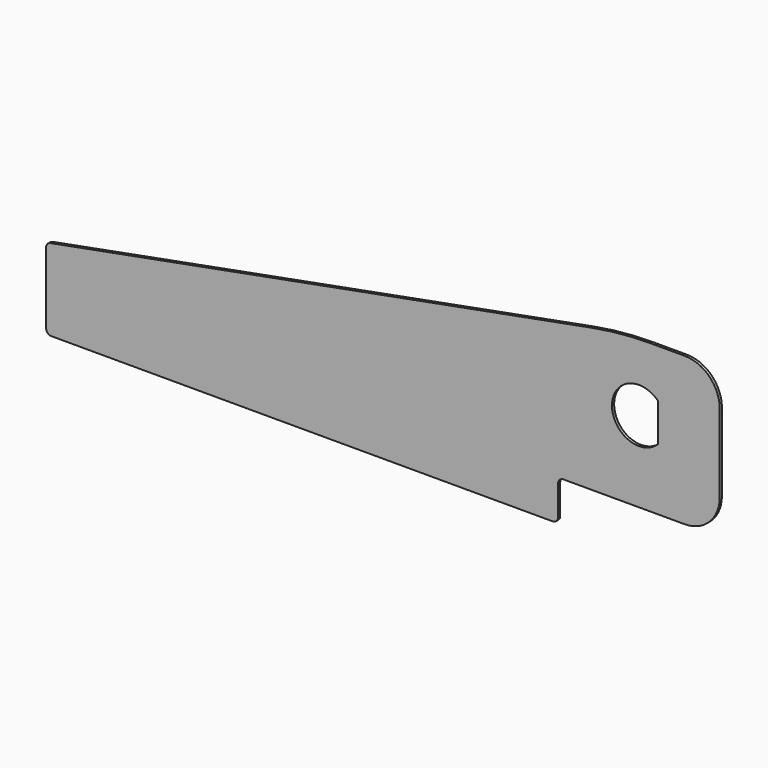
from build123d import *

# Parameters (mm, degrees)
F1_DEPTH = 0.64516


with BuildPart() as f1:
    # F0 (on Front) → F1 (new body)
    with BuildSketch(Plane.XZ):
        with BuildLine():
            ThreePointArc((0, 1.27), (0.371974, 0.371974), (1.27, 0))
            Line((1.27, 0), (119.38, 0))
            ThreePointArc((119.38, 0), (120.278026, 0.371974), (120.65, 1.27))
            Line((120.65, 1.27), (120.65, 8.255))
            ThreePointArc((120.65, 8.255), (121.021974, 9.153026), (121.92, 9.525))
            Line((121.92, 9.525), (150.495, 9.525))
            ThreePointArc((150.495, 9.525), (156.332166, 11.942834), (158.75, 17.78))
            Line((158.75, 17.78), (158.75, 36.195))
            ThreePointArc((158.75, 36.195), (156.332166, 42.032166), (150.495, 44.45))
            Line((150.495, 44.45), (142.54871, 44.45))
            ThreePointArc((142.54871, 44.45), (135.497057, 44.123014), (128.505923, 43.144861))
            Line((128.505923, 43.144861), (1.035954, 19.244241))
            ThreePointArc((1.035954, 19.244241), (0.292723, 18.807061), (0, 17.995994))
            Line((0, 17.995994), (0, 1.27))
        make_face()
        with BuildLine():
            ThreePointArc((144.234807, 24.13), (133.35, 28.575), (144.234807, 33.02))
            Line((144.234807, 33.02), (144.234807, 24.13))
        make_face(mode=Mode.SUBTRACT)
    extrude(amount=F1_DEPTH)


solid = f1.part
